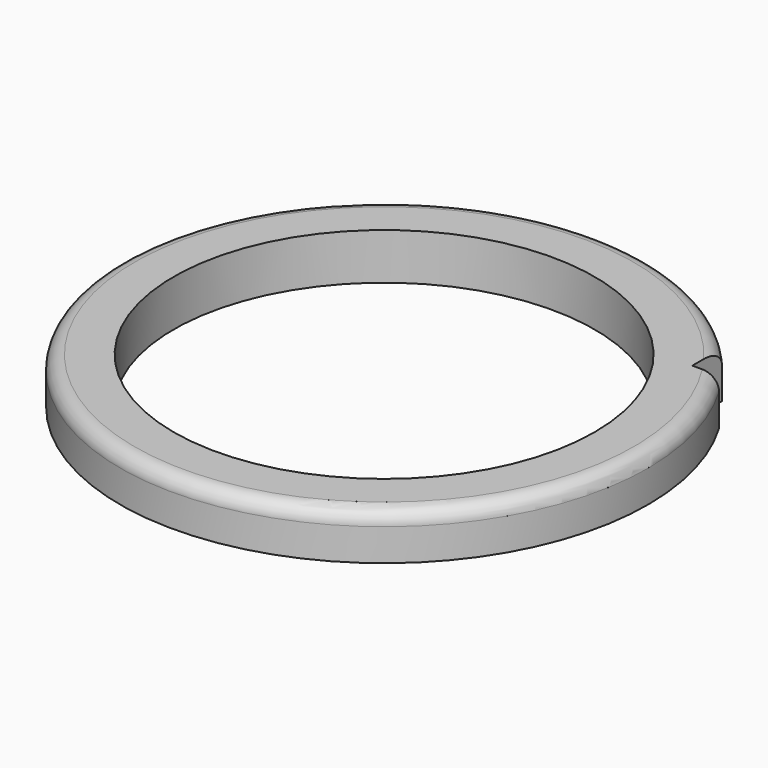
from build123d import *

# Parameters (mm, degrees)
F0_R     = 18.5
F0_R_2   = 14.75
F1_DEPTH = 3.25
F3_DEPTH = 25
F4_R     = 1


with BuildPart() as f1:
    # F0 (on Top) → F1 (new body)
    with BuildSketch(Plane.XY):
        Circle(F0_R)
        Circle(F0_R_2, mode=Mode.SUBTRACT)
    extrude(amount=F1_DEPTH)

    # F2 (on face) → F3 (cut)
    with BuildSketch(Plane.XY.offset(3.25)):
        with BuildLine():
            Line((14, 9.5), (15.874508, 9.5))
            ThreePointArc((15.874508, 9.5), (14.993431, 10.837298), (14, 12.093387))
            Line((14, 12.093387), (14, 9.5))
        make_face()
    extrude(amount=-F3_DEPTH, mode=Mode.SUBTRACT)

    # F4
    f4_edges = [f1.edges().sort_by_distance(p)[0] for p in [
        (-14.993431, -10.837298, 3.25),
    ]]
    fillet(f4_edges, radius=F4_R)


solid = f1.part
